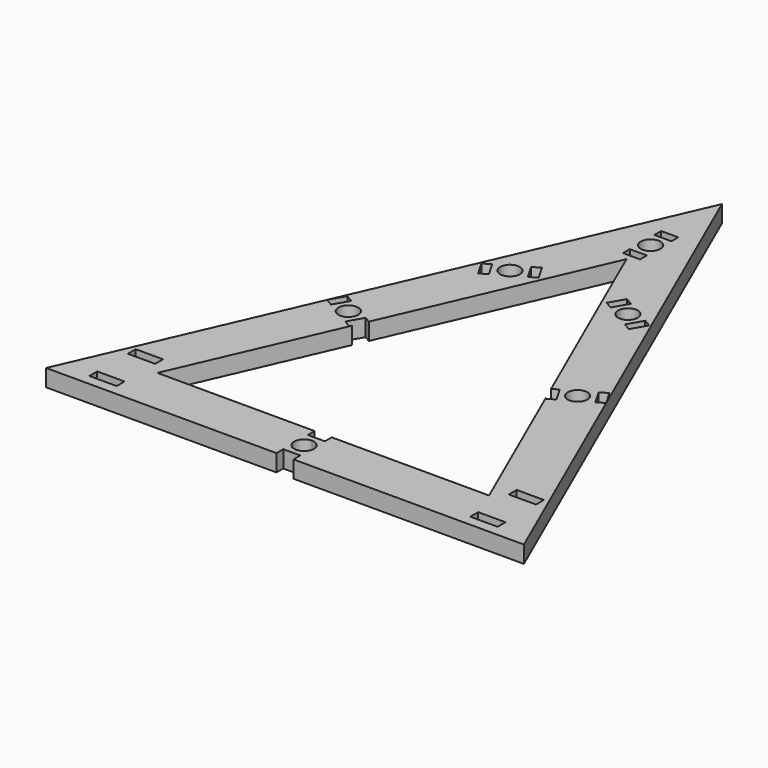
from build123d import *

# Parameters (mm, degrees)
F0_W     = 5.08
F0_H     = 1.836467
F0_H_2   = 1.836468
F0_R     = 1.8415
F0_W_2   = 3.175
F0_H_3   = 1.5875
F1_DEPTH = 3.175


with BuildPart() as f1:
    # F0 (on Top) → F1 (new body)
    with BuildSketch(Plane.XY):
        Polygon((1.5875, -29.071287), (44.449999, -29.079242), (0.005395, 72.529008), (-44.449999, -29.062744), (-1.5875, -29.070698), (-1.5875, -27.483493), (0, -27.483493), (1.5875, -27.483493), align=None)
        with Locations((-35.429051, -26.18307)):
            Rectangle(F0_W, F0_H, mode=Mode.SUBTRACT)
        with Locations((-35.429051, -17.234603)):
            Rectangle(F0_W, F0_H_2, mode=Mode.SUBTRACT)
        with BuildLine():
            ThreePointArc((1.8415, -24.625993), (1.302137, -25.92813), (0, -26.467493))
            ThreePointArc((0, -26.467493), (-1.8415, -24.625993), (0, -22.784493))
            ThreePointArc((0, -22.784493), (1.302137, -23.323855), (1.8415, -24.625993))
        make_face(mode=Mode.SUBTRACT)
        Polygon((-24.382213, 15.910164), (-23.007653, 15.116562), (-24.595153, 12.366931), (-25.969713, 13.160534), align=None, mode=Mode.SUBTRACT)
        with Locations((-21.326735, 12.312996)):
            Circle(F0_R, mode=Mode.SUBTRACT)
        Polygon((1.5875, -21.768493), (0, -21.768493), (-1.5875, -21.768493), (-1.5875, -20.180698), (-30.857051, -20.175266), (-18.039491, 9.116081), (-18.270747, 8.715534), (-19.645818, 9.509431), (-18.058318, 12.259062), (-16.945342, 11.616485), (0.003745, 50.349411), (16.945842, 11.616773), (18.058318, 12.259062), (19.645818, 9.509431), (18.270747, 8.715534), (18.040242, 9.11478), (30.857051, -20.186719), (1.5875, -20.181287), align=None, mode=Mode.SUBTRACT)
        with Locations((35.429051, -26.18307)):
            Rectangle(F0_W, F0_H, mode=Mode.SUBTRACT)
        with Locations((35.429051, -17.234603)):
            Rectangle(F0_W, F0_H_2, mode=Mode.SUBTRACT)
        with Locations((21.326735, 12.312996)):
            Circle(F0_R, mode=Mode.SUBTRACT)
        Polygon((25.969713, 13.160534), (24.595153, 12.366931), (23.007653, 15.116562), (24.382213, 15.910164), align=None, mode=Mode.SUBTRACT)
        Polygon((-12.642652, 34.163247), (-14.017468, 33.369497), (-15.604968, 36.119127), (-14.230152, 36.912878), align=None, mode=Mode.SUBTRACT)
        with Locations((-10.961735, 36.966812)):
            Circle(F0_R, mode=Mode.SUBTRACT)
        Polygon((-6.318502, 37.814497), (-7.693317, 37.020747), (-9.280817, 39.770378), (-7.906002, 40.564128), align=None, mode=Mode.SUBTRACT)
        with Locations((-0.001844, 52.305038)):
            Rectangle(F0_W_2, F0_H_3, mode=Mode.SUBTRACT)
        with Locations((-0.001844, 55.956288)):
            Circle(F0_R, mode=Mode.SUBTRACT)
        with Locations((-0.001844, 59.607538)):
            Rectangle(F0_W_2, F0_H_3, mode=Mode.SUBTRACT)
        with Locations((10.963579, 36.970006)):
            Circle(F0_R, mode=Mode.SUBTRACT)
        Polygon((7.907846, 40.567321), (9.282661, 39.773571), (7.695161, 37.023941), (6.320346, 37.817691), align=None, mode=Mode.SUBTRACT)
        Polygon((14.231996, 36.916071), (15.606812, 36.122321), (14.019312, 33.372691), (12.644496, 34.166441), align=None, mode=Mode.SUBTRACT)
    extrude(amount=F1_DEPTH)


solid = f1.part
